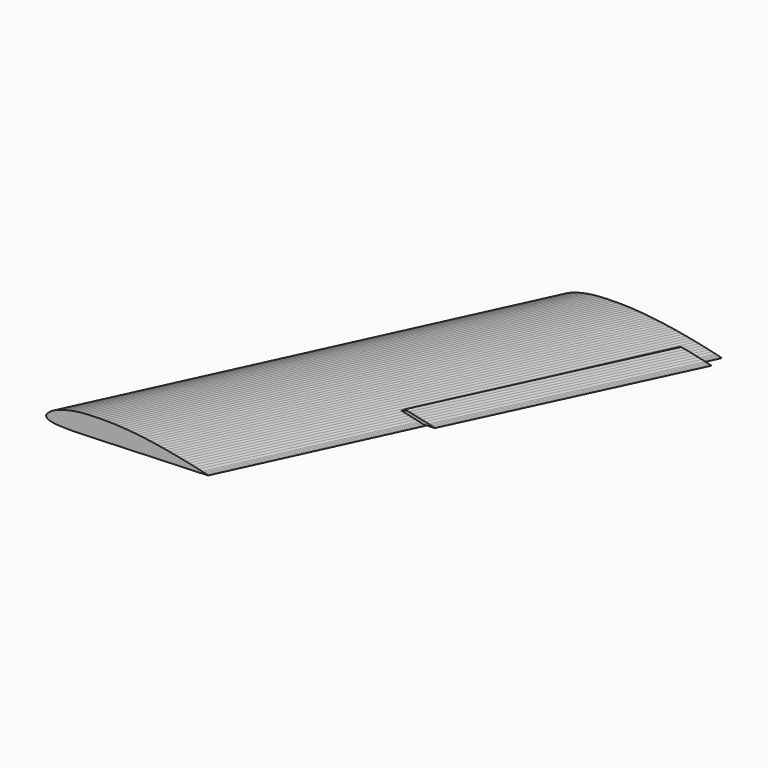
from build123d import *

# Parameters (mm, degrees)
PAD_DEPTH = 15


with BuildPart() as body001:
    # Sketch002 → Pad (new body, symmetric)
    with BuildSketch(Plane.XY):
        Polygon((593.329102, 725.001892), (403.150884, 317.163388), (454.965642, 317.163388), (645.14386, 725.001892), align=None)
    extrude(amount=PAD_DEPTH, both=True)


with BuildPart() as body:
    # Sketch001 → AdditiveLoft section 0
    with BuildSketch(Plane(origin=(350, 750, 0), x_dir=(1, 0, 0), z_dir=(0, -1, 0))):
        Polygon((0, 0), (0.15, 0.7017), (0.3, 1.11813), (0.6, 1.74075), (1.2, 2.67714), (2.4, 4.1205), (3.6, 5.35743), (6, 7.61205), (9, 9.90645), (12, 11.73849), (15, 13.28259), (18, 14.62713), (24, 16.92924), (30, 18.89943), (36, 20.58612), (42, 22.0308), (48, 23.27121), (54, 24.32061), (60, 25.17606), (66, 25.84299), (72, 26.34924), (78, 26.7252), (84, 27.00048), (90, 27.20412), (96, 27.35571), (102, 27.45237), (108, 27.48798), (114, 27.45636), (120, 27.35136), (126, 27.16971), (132, 26.91525), (138, 26.59281), (144, 26.20716), (150, 25.76316), (156, 25.26435), (162, 24.71136), (168, 24.1044), (174, 23.44353), (180, 22.72899), (186, 21.96165), (192, 21.14466), (198, 20.28138), (204, 19.37529), (210, 18.42987), (216, 17.44797), (222, 16.43025), (228, 15.37695), (234, 14.28843), (240, 13.16508), (246, 12.00735), (252, 10.81608), (258, 9.5922), (264, 8.33673), (270, 7.05075), (276, 5.73468), (282, 4.38717), (288, 3.00696), (291, 2.30604), (294, 1.60005), (297, 0.8907), (299.994904, 0), (297, -0.28998), (294, -0.40017), (291, -0.51033), (288, -0.62049), (282, -0.84084), (276, -1.06119), (270, -1.28154), (264, -1.50189), (258, -1.72224), (252, -1.94259), (246, -2.16294), (240, -2.38329), (234, -2.60364), (228, -2.82399), (222, -3.04434), (216, -3.26469), (210, -3.48507), (204, -3.70545), (198, -3.92586), (192, -4.14621), (186, -4.36653), (180, -4.58679), (174, -4.80696), (168, -5.02716), (162, -5.24742), (156, -5.46786), (150, -5.68857), (144, -5.90958), (138, -6.13059), (132, -6.35124), (126, -6.57126), (120, -6.79023), (114, -7.00818), (108, -7.2261), (102, -7.44528), (96, -7.66695), (90, -7.89237), (84, -8.12088), (78, -8.34492), (72, -8.55543), (66, -8.74335), (60, -8.89968), (54, -9.0147), (48, -9.07638), (42, -9.07212), (36, -8.98899), (30, -8.81358), (24, -8.53785), (18, -8.13831), (15, -7.81356), (12, -7.35633), (9, -6.78168), (6, -6.08169), (3.6, -5.09199), (2.4, -4.28586), (1.2, -3.15378), (0.6, -2.34339), (0.3, -1.78254), (0.15, -1.401), align=None)
    # Sketch → AdditiveLoft section 1
    with BuildSketch(Plane.XZ):
        Polygon((0, 0), (0.15, 0.7017), (0.3, 1.11813), (0.6, 1.74075), (1.2, 2.67714), (2.4, 4.1205), (3.6, 5.35743), (6, 7.61205), (9, 9.90645), (12, 11.73849), (15, 13.28259), (18, 14.62713), (24, 16.92924), (30, 18.89943), (36, 20.58612), (42, 22.0308), (48, 23.27121), (54, 24.32061), (60, 25.17606), (66, 25.84299), (72, 26.34924), (78, 26.7252), (84, 27.00048), (90, 27.20412), (96, 27.35571), (102, 27.45237), (108, 27.48798), (114, 27.45636), (120, 27.35136), (126, 27.16971), (132, 26.91525), (138, 26.59281), (144, 26.20716), (150, 25.76316), (156, 25.26435), (162, 24.71136), (168, 24.1044), (174, 23.44353), (180, 22.72899), (186, 21.96165), (192, 21.14466), (198, 20.28138), (204, 19.37529), (210, 18.42987), (216, 17.44797), (222, 16.43025), (228, 15.37695), (234, 14.28843), (240, 13.16508), (246, 12.00735), (252, 10.81608), (258, 9.5922), (264, 8.33673), (270, 7.05075), (276, 5.73468), (282, 4.38717), (288, 3.00696), (291, 2.30604), (294, 1.60005), (297, 0.8907), (299.994904, 0), (297, -0.28998), (294, -0.40017), (291, -0.51033), (288, -0.62049), (282, -0.84084), (276, -1.06119), (270, -1.28154), (264, -1.50189), (258, -1.72224), (252, -1.94259), (246, -2.16294), (240, -2.38329), (234, -2.60364), (228, -2.82399), (222, -3.04434), (216, -3.26469), (210, -3.48507), (204, -3.70545), (198, -3.92586), (192, -4.14621), (186, -4.36653), (180, -4.58679), (174, -4.80696), (168, -5.02716), (162, -5.24742), (156, -5.46786), (150, -5.68857), (144, -5.90958), (138, -6.13059), (132, -6.35124), (126, -6.57126), (120, -6.79023), (114, -7.00818), (108, -7.2261), (102, -7.44528), (96, -7.66695), (90, -7.89237), (84, -8.12088), (78, -8.34492), (72, -8.55543), (66, -8.74335), (60, -8.89968), (54, -9.0147), (48, -9.07638), (42, -9.07212), (36, -8.98899), (30, -8.81358), (24, -8.53785), (18, -8.13831), (15, -7.81356), (12, -7.35633), (9, -6.78168), (6, -6.08169), (3.6, -5.09199), (2.4, -4.28586), (1.2, -3.15378), (0.6, -2.34339), (0.3, -1.78254), (0.15, -1.401), align=None)
    loft()

    # Boolean: cut Body001
    add(body001.part, mode=Mode.SUBTRACT)


with BuildPart() as obj1:
    # Sketch003 → AdditiveLoft001 section 0
    with BuildSketch(Plane(origin=(353, 722, 0), x_dir=(1, 0, 0), z_dir=(0, -1, 0))):
        Polygon((243.590942, 12.025369), (252, 10.81608), (258, 9.5922), (264, 8.33673), (270, 7.05075), (276, 5.73468), (282, 4.38717), (288, 3.00696), (291, 2.30604), (294, 1.60005), (297, 0.8907), (299.994904, 0), (297, -0.28998), (294, -0.40017), (291, -0.51033), (288, -0.62049), (282, -0.84084), (276, -1.06119), (270, -1.28154), (264, -1.50189), (258, -1.72224), (252, -1.94259), (243.590942, -2.144921), align=None)
    # Sketch004 → AdditiveLoft001 section 1
    with BuildSketch(Plane(origin=(163, 320.16, 0), x_dir=(1, 0, 0), z_dir=(0, -1, 0))):
        Polygon((243.590942, 12.025369), (252, 10.81608), (258, 9.5922), (264, 8.33673), (270, 7.05075), (276, 5.73468), (282, 4.38717), (288, 3.00696), (291, 2.30604), (294, 1.60005), (297, 0.8907), (299.994904, 0), (297, -0.28998), (294, -0.40017), (291, -0.51033), (288, -0.62049), (282, -0.84084), (276, -1.06119), (270, -1.28154), (264, -1.50189), (258, -1.72224), (252, -1.94259), (243.590942, -2.144921), align=None)
    loft()


solid = Compound([body.part, obj1.part])
